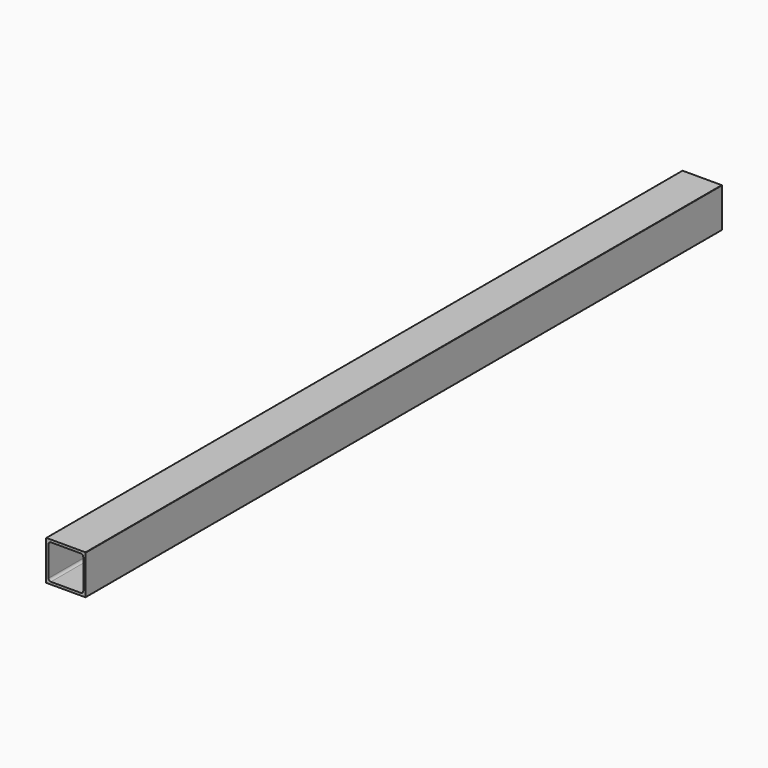
from build123d import *

# Parameters (mm, degrees)
F0_W     = 25.4
F0_H     = 25.4
F1_DEPTH = 736.6
F2_W     = 22.2504
F2_H     = 22.2504
F3_DEPTH = 736.6
F4_R     = 1.524
F5_R     = 0.254
F6_DEPTH = 226.9998


with BuildPart() as f1:
    # F0 (on Front) → F1 (new body)
    with BuildSketch(Plane.XZ):
        Rectangle(F0_W, F0_H)
    extrude(amount=F1_DEPTH)

    # F2 (on face) → F3 (cut, through all)
    with BuildSketch(Plane.XZ.offset(736.6)):
        Rectangle(F2_W, F2_H)
    extrude(amount=-F3_DEPTH, mode=Mode.SUBTRACT)

    # F4
    f4_edges = [f1.edges().sort_by_distance(p)[0] for p in [
        (-11.1252, -368.3, 11.1252),
        (11.1252, -368.3, -11.1252),
        (11.1252, -368.3, 11.1252),
        (-11.1252, -368.3, -11.1252),
    ]]
    fillet(f4_edges, radius=F4_R)

    # F5
    f5_edges = [f1.edges().sort_by_distance(p)[0] for p in [
        (12.7, -368.3, 12.7),
        (12.7, -368.3, -12.7),
        (-12.7, -368.3, -12.7),
        (-12.7, -368.3, 12.7),
    ]]
    fillet(f5_edges, radius=F5_R)

    # F6 (cut): a face of the model
    f6_faces = [f1.faces().sort_by_distance(p)[0] for p in [
        (12.3407897552, -736.6, 0),
    ]]
    extrude(f6_faces, amount=-F6_DEPTH, mode=Mode.SUBTRACT)


solid = f1.part
